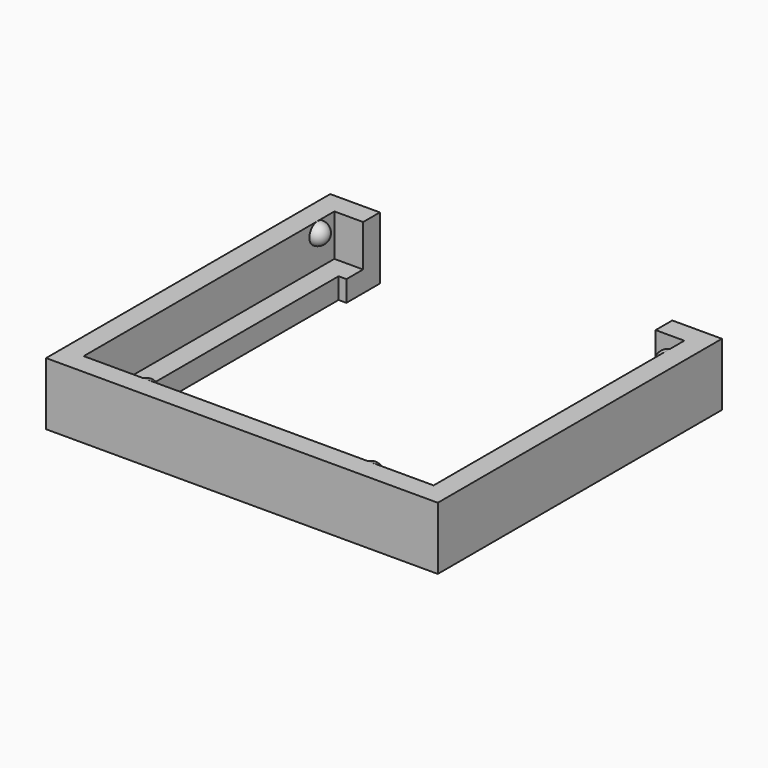
from build123d import *

# Parameters (mm, degrees)
SKETCH049_W             = 34
SKETCH049_H             = 37.5
PAD032_DEPTH            = 6
SKETCH050_W             = 30
SKETCH050_H             = 33.5
POCKET014_DEPTH         = 4
SKETCH051_W             = 26
SKETCH051_H             = 29.5
POCKET015_DEPTH         = 2.001
SKETCH052_W             = 4
SKETCH052_H             = 28
POCKET016_DEPTH         = 6.001
REVOLUTION_ANGLE        = 180
REVOLUTION001_ANGLE     = -180
REVOLUTION002_ANGLE     = 180
BODY009_PLACEMENT_ANGLE = -90


with BuildPart() as part:
    # Sketch049 → Pad032 (new body)
    with BuildSketch(Plane.XY):
        with Locations((17, 18.75)):
            Rectangle(SKETCH049_W, SKETCH049_H)
    extrude(amount=PAD032_DEPTH)

    # Sketch050 (on Face6 of Pad032) → Pocket014 (cut)
    with BuildSketch(Plane.XY.offset(6)):
        with Locations((17, 18.75)):
            Rectangle(SKETCH050_W, SKETCH050_H)
    extrude(amount=-POCKET014_DEPTH, mode=Mode.SUBTRACT)

    # Sketch051 (on Face11 of Pocket014) → Pocket015 (cut, through all)
    with BuildSketch(Plane.XY.offset(2)):
        with Locations((17, 18.75)):
            Rectangle(SKETCH051_W, SKETCH051_H)
    extrude(amount=-POCKET015_DEPTH, mode=Mode.SUBTRACT)

    # Sketch052 (on Face5 of Pocket015) → Pocket016 (cut, through all)
    with BuildSketch(Plane.XY.offset(6)):
        with Locations((2, 18.75)):
            Rectangle(SKETCH052_W, SKETCH052_H)
    extrude(amount=-POCKET016_DEPTH, mode=Mode.SUBTRACT)

    # Sketch053 (on Face17 of Pocket016) → Revolution (revolve)
    with BuildSketch(Plane(origin=(32, 0, 0), x_dir=(0, -1, 0), z_dir=(-1, 0, 0))):
        with BuildLine():
            ThreePointArc((-28.5, 5), (-29.5, 6), (-30.5, 5))
            Line((-28.5, 5), (-30.5, 5))
        make_face()
        with BuildLine():
            ThreePointArc((-7, 5), (-8, 6), (-9, 5))
            Line((-9, 5), (-7, 5))
        make_face()
    revolve(axis=Axis((32, 29.201832, 5), (0, -1, 0)), revolution_arc=REVOLUTION_ANGLE)

    # Sketch054 (on Face16 of Revolution) → Revolution001 (revolve)
    with BuildSketch(Plane(origin=(0, 2, 0), x_dir=(-1, 0, 0), z_dir=(0, 1, 0))):
        with BuildLine():
            ThreePointArc((-3, 5), (-4, 6), (-5, 5))
            Line((-5, 5), (-3, 5))
        make_face()
    revolve(axis=Axis((5, 2, 5), (1, 0, 0)), revolution_arc=REVOLUTION001_ANGLE)

    # Sketch055 (on Face19 of Revolution001) → Revolution002 (revolve)
    with BuildSketch(Plane.XZ.offset(-35.5)):
        with BuildLine():
            ThreePointArc((5, 5), (4, 6), (3, 5))
            Line((3, 5), (5, 5))
        make_face()
    revolve(axis=Axis((5, 35.5, 5), (1, 0, 0)), revolution_arc=REVOLUTION002_ANGLE)


with BuildPart() as part_1:
    # Body009 placement: moved
    add(part.part.moved(Location((5, 40, 105.27))).rotate(Axis((5, 40, 105.27), (0, 0, 1)), BODY009_PLACEMENT_ANGLE))


solid = part_1.part
